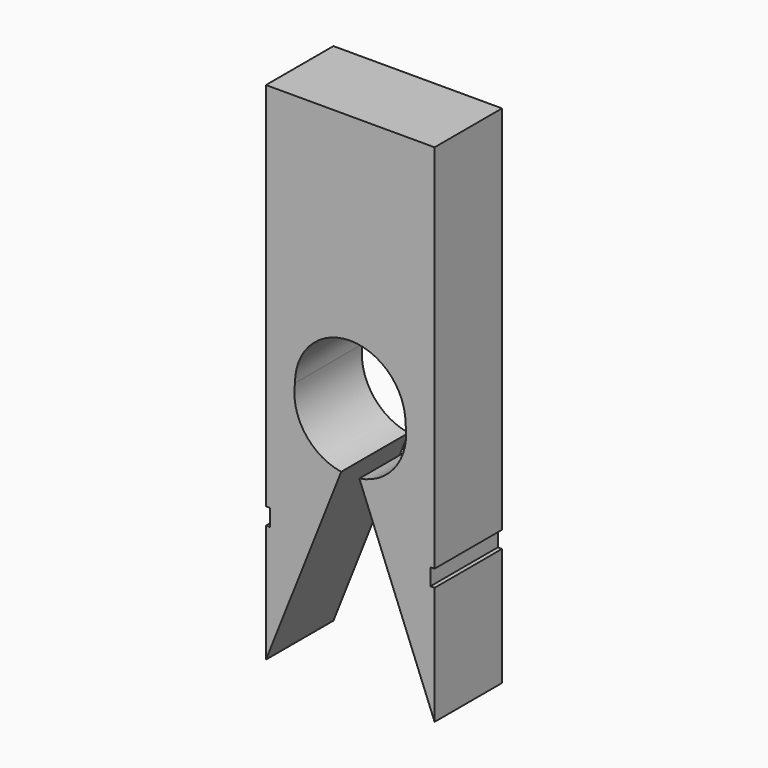
from build123d import *

# Parameters (mm, degrees)
F1_DEPTH = 12.7


with BuildPart() as f1:
    # F0 (on Front) → F1 (new body)
    with BuildSketch(Plane.XZ):
        with BuildLine():
            ThreePointArc((-8.3312, 0), (0, 8.3312), (8.3312, 0))
            ThreePointArc((8.3312, 0), (6.817601, -6.194161), (1.367398, -9.503828))
            Line((1.367398, -9.503828), (12.7, -38.1))
            Line((12.7, -38.1), (12.7, -20.32))
            Line((12.7, -20.32), (12.065, -20.32))
            Line((12.065, -20.32), (12.065, -17.78))
            Line((12.065, -17.78), (12.7, -17.78))
            Line((12.7, -17.78), (12.7, 38.1))
            Line((12.7, 38.1), (-12.7, 38.1))
            Line((-12.7, 38.1), (-12.7, -17.78))
            Line((-12.7, -17.78), (-12.065, -17.78))
            Line((-12.065, -17.78), (-12.065, -20.32))
            Line((-12.065, -20.32), (-12.7, -20.32))
            Line((-12.7, -20.32), (-12.7, -38.1))
            Line((-12.7, -38.1), (-1.367398, -9.503828))
            ThreePointArc((-1.367398, -9.503828), (-6.817601, -6.194161), (-8.3312, 0))
        make_face()
    extrude(amount=F1_DEPTH)


solid = f1.part
